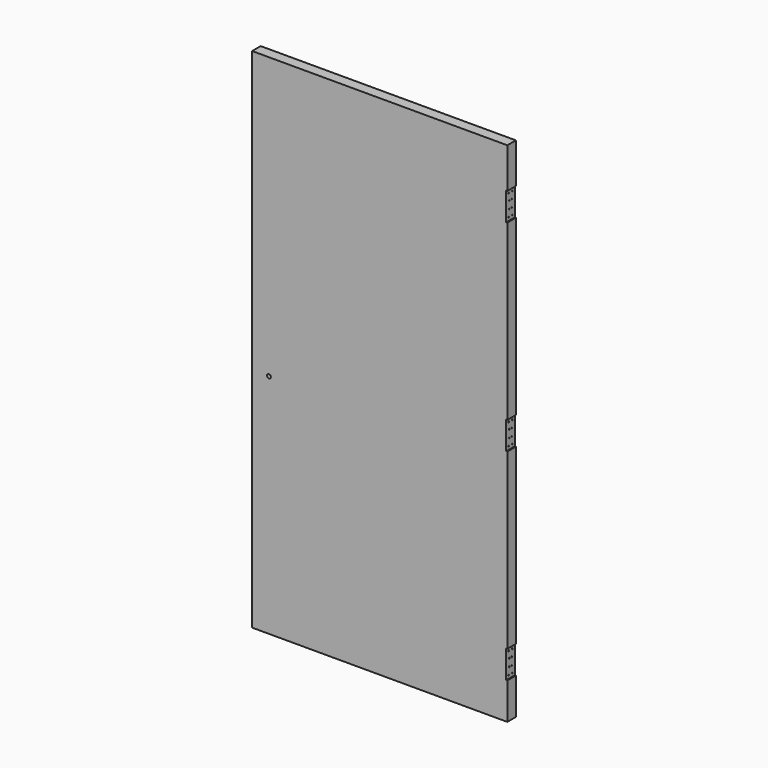
from build123d import *

# Parameters (mm, degrees)
F0_W     = 1061.24375
F0_H     = 2111.375
F1_DEPTH = 44.45
F2_W     = 4.572
F2_H     = 115.8875
F3_DEPTH = 44.451
F4_R     = 2.2479
F5_DEPTH = 25.4
F6_R     = 7.9375
F7_DEPTH = 44.451
F8_W     = 1016
F8_H     = 203.2
F8_R     = 2.667
F9_DEPTH = 1.524


with BuildPart() as f1:
    # F0 (on Front) → F1 (new body)
    with BuildSketch(Plane.XZ):
        with Locations((530.621875, 1055.6875)):
            Rectangle(F0_W, F0_H)
    extrude(amount=F1_DEPTH)

    # F2 (on Front) → F3 (cut, through all)
    with BuildSketch(Plane.XZ):
        with Locations((1058.95775, 1885.95)):
            Rectangle(F2_W, F2_H)
        with Locations((1058.95775, 1047.75)):
            Rectangle(F2_W, F2_H)
        with Locations((1058.95775, 209.55)):
            Rectangle(F2_W, F2_H)
    extrude(amount=F3_DEPTH, mode=Mode.SUBTRACT)

    # F4 (on face) → F5 (cut)
    with BuildSketch(Plane.YZ.offset(1056.67175)):
        with Locations((-31.75, 1930.1968)):
            Circle(F4_R)
        with Locations((-15.875, 1901.6218)):
            Circle(F4_R)
        with Locations((-15.875, 1870.2782)):
            Circle(F4_R)
        with Locations((-31.75, 1841.7032)):
            Circle(F4_R)
        with Locations((-12.7, 1930.1968)):
            Circle(F4_R)
        with Locations((-28.575, 1901.6218)):
            Circle(F4_R)
        with Locations((-28.575, 1870.2782)):
            Circle(F4_R)
        with Locations((-12.7, 1841.7032)):
            Circle(F4_R)
        with Locations((-31.75, 1091.9968)):
            Circle(F4_R)
        with Locations((-12.7, 1091.9968)):
            Circle(F4_R)
        with Locations((-15.875, 1063.4218)):
            Circle(F4_R)
        with Locations((-28.575, 1063.4218)):
            Circle(F4_R)
        with Locations((-15.875, 1032.0782)):
            Circle(F4_R)
        with Locations((-28.575, 1032.0782)):
            Circle(F4_R)
        with Locations((-12.7, 1003.5032)):
            Circle(F4_R)
        with Locations((-31.75, 1003.5032)):
            Circle(F4_R)
        with Locations((-31.75, 253.7968)):
            Circle(F4_R)
        with Locations((-12.7, 253.7968)):
            Circle(F4_R)
        with Locations((-15.875, 225.2218)):
            Circle(F4_R)
        with Locations((-28.575, 225.2218)):
            Circle(F4_R)
        with Locations((-15.875, 193.8782)):
            Circle(F4_R)
        with Locations((-28.575, 193.8782)):
            Circle(F4_R)
        with Locations((-12.7, 165.3032)):
            Circle(F4_R)
        with Locations((-31.75, 165.3032)):
            Circle(F4_R)
    extrude(amount=-F5_DEPTH, mode=Mode.SUBTRACT)

    # F6 (on face) → F7 (cut, through all)
    with BuildSketch(Plane.XZ.offset(44.45)):
        with Locations((69.85, 942.975)):
            Circle(F6_R)
    extrude(amount=-F7_DEPTH, mode=Mode.SUBTRACT)


with BuildPart() as f9:
    # F8 (on face) → F9 (new body)
    with BuildSketch(Plane(origin=(0, 0, 0), x_dir=(-1, 0, 0), z_dir=(0, 1, 0))):
        with Locations((-523.812787, 218.048266)):
            Rectangle(F8_W, F8_H)
        with Locations((-1022.287787, 125.973266)):
            Circle(F8_R, mode=Mode.SUBTRACT)
        with Locations((-856.129454, 125.973266)):
            Circle(F8_R, mode=Mode.SUBTRACT)
        with Locations((-689.97112, 125.973266)):
            Circle(F8_R, mode=Mode.SUBTRACT)
        with Locations((-1022.287787, 218.048266)):
            Circle(F8_R, mode=Mode.SUBTRACT)
        with Locations((-523.812787, 125.973266)):
            Circle(F8_R, mode=Mode.SUBTRACT)
        with Locations((-357.654454, 125.973266)):
            Circle(F8_R, mode=Mode.SUBTRACT)
        with Locations((-191.49612, 125.973266)):
            Circle(F8_R, mode=Mode.SUBTRACT)
        with Locations((-25.337787, 125.973266)):
            Circle(F8_R, mode=Mode.SUBTRACT)
        with Locations((-25.337787, 218.048266)):
            Circle(F8_R, mode=Mode.SUBTRACT)
        with Locations((-1022.287787, 310.123266)):
            Circle(F8_R, mode=Mode.SUBTRACT)
        with Locations((-856.129454, 310.123266)):
            Circle(F8_R, mode=Mode.SUBTRACT)
        with Locations((-689.97112, 310.123266)):
            Circle(F8_R, mode=Mode.SUBTRACT)
        with Locations((-523.812787, 310.123266)):
            Circle(F8_R, mode=Mode.SUBTRACT)
        with Locations((-357.654454, 310.123266)):
            Circle(F8_R, mode=Mode.SUBTRACT)
        with Locations((-191.49612, 310.123266)):
            Circle(F8_R, mode=Mode.SUBTRACT)
        with Locations((-25.337787, 310.123266)):
            Circle(F8_R, mode=Mode.SUBTRACT)
    extrude(amount=F9_DEPTH)


solid = Compound([f1.part, f9.part])
